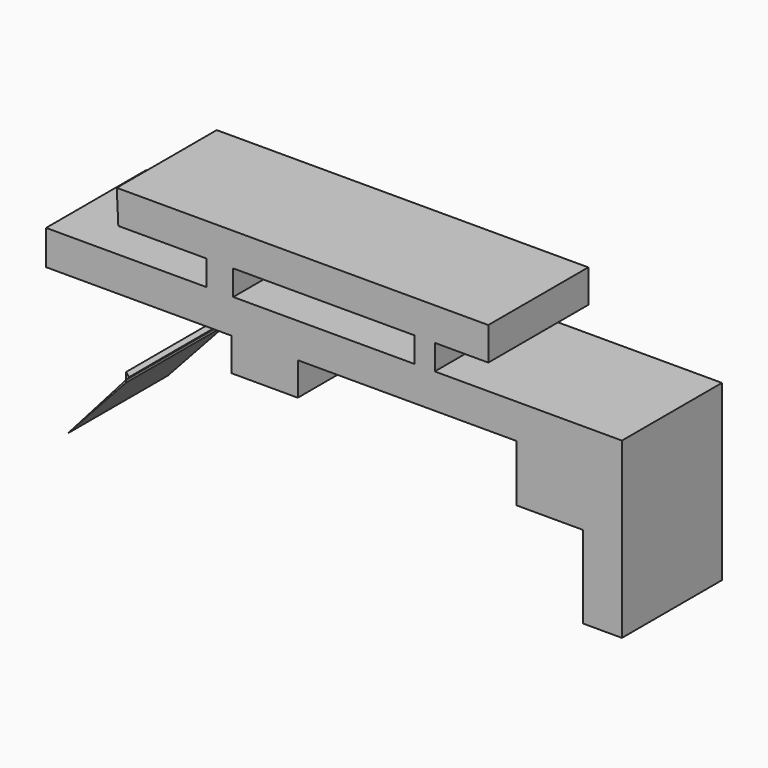
from build123d import *

# Parameters (mm, degrees)
F0_W     = 6.2392428517
F0_H     = 7.6790601015
F0_W_2   = 20.1575532556
F0_H_2   = 10.0787729025
F0_W_3   = 8.159019053
F1_DEPTH = 19.05


with BuildPart() as f1:
    # F0 (on Front) → F1 (new body, symmetric)
    with BuildSketch(Plane.XZ):
        Polygon((0, 0), (0, 42.3995219171), (-11.9426297024, 42.3995219171), (-11.9426297024, 25.1216199249), (-11.9426297024, 0), align=None)
        Polygon((-11.9426297024, 42.3995219171), (0, 42.3995219171), (0, 52.9582537711), (-57.0571571589, 52.9582537711), (-63.2964000106, 52.9582537711), (-118.4897050261, 52.9582537711), (-126.6487240791, 52.9582537711), (-175.5468696356, 52.9582537711), (-175.5468696356, 42.3995219171), (-150.1658707857, 42.3995219171), (-118.9696490765, 42.3995219171), (-98.8120958209, 42.3995219171), (-32.1001857519, 42.3995219171), (-17.2219891101, 42.3995219171), align=None)
        Polygon((-11.9426297024, 25.1216199249), (-11.9426297024, 42.3995219171), (-17.2219891101, 42.3995219171), (-32.1001857519, 42.3995219171), (-32.1001857519, 25.1216199249), align=None)
        with Locations((-60.1767785847, 56.7977838218)):
            Rectangle(F0_W, F0_H)
        Polygon((-63.2964000106, 60.6373138726), (-57.0571571589, 60.6373138726), (-40.7391376793, 60.6373138726), (-40.7391376793, 70.7160905004), (-154.0053933859, 70.7160905004), (-153.5254716873, 60.6373138726), (-126.6487240791, 60.6373138726), (-118.4897050261, 60.6373138726), align=None)
        with Locations((-108.8908724487, 37.3601354659)):
            Rectangle(F0_W_2, F0_H_2)
        with Locations((-122.5692145526, 56.7977838218)):
            Rectangle(F0_W_3, F0_H)
    extrude(amount=F1_DEPTH, both=True)


with BuildPart() as f1b:
    # F0 (on Front) → F1, piece 2 (new body, symmetric)
    with BuildSketch(Plane.XZ):
        Polygon((-151.1257588863, 19.3623192608), (-151.1257588863, 20.1125881042), (-168.8835918903, 0), align=None)
    extrude(amount=F1_DEPTH, both=True)


with BuildPart() as f1c:
    # F0 (on Front) → F1, piece 3 (new body, symmetric)
    with BuildSketch(Plane.XZ):
        Polygon((-151.1257588863, 20.1125881042), (-150.2589904928, 21.0942932298), (-151.1257588863, 22.2419705242), align=None)
    extrude(amount=F1_DEPTH, both=True)


with BuildPart() as f1d:
    # F0 (on Front) → F1, piece 4 (new body, symmetric)
    with BuildSketch(Plane.XZ):
        Polygon((-150.1658707857, 20.970994579), (-150.1658707857, 21.1997609586), (-150.2589904928, 21.0942932298), align=None)
    extrude(amount=F1_DEPTH, both=True)


solid = Compound([f1.part, f1b.part, f1c.part, f1d.part])
